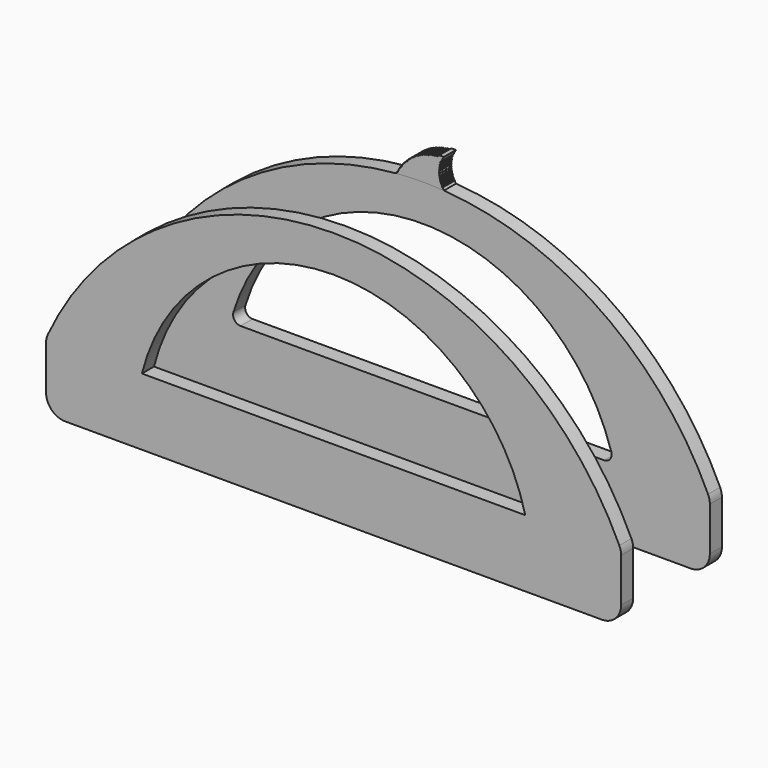
from build123d import *

# Parameters (mm, degrees)
F0_W     = 25.4
F0_H     = 17.78
F0_W_2   = 101.6
F1_DEPTH = 4
F2_R     = 5.08
F5_DEPTH = 4
F6_DEPTH = 4
F7_R     = 2


with BuildPart() as f1:
    # F0 (on Front) → F1 (new body)
    with BuildSketch(Plane.XZ):
        with BuildLine():
            Line((-96.1593091488, 0), (-70.7593091488, 0))
            ThreePointArc((-70.7593091488, 0), (-19.9593091488, 39.6002162648), (30.8406908512, 0))
            Line((30.8406908512, 0), (56.2406908512, 0))
            ThreePointArc((56.2406908512, 0), (-19.9593091488, 49.3151322007), (-96.1593091488, 0))
        make_face()
        with Locations((-83.4593091488, -8.89)):
            Rectangle(F0_W, F0_H)
        with Locations((-19.9593091488, -8.89)):
            Rectangle(F0_W_2, F0_H)
        with Locations((43.5406908512, -8.89)):
            Rectangle(F0_W, F0_H)
    extrude(amount=F1_DEPTH)

    # F2
    f2_edges = [f1.edges().sort_by_distance(p)[0] for p in [
        (-96.159309, -2, -17.78),
        (-96.159309, -2, 0),
        (56.240691, -2, 0),
        (56.240691, -2, -17.78),
    ]]
    fillet(f2_edges, radius=F2_R)


with BuildPart() as f5:
    # F4 (on offset) → F5 (new body)
    with BuildSketch(Plane(origin=(0, 25.4, 0), x_dir=(-1, 0, 0), z_dir=(0, 1, 0))):
        with BuildLine():
            ThreePointArc((14.2333489069, 49.1186406291), (-27.3325756719, 34.6377995621), (-55.7661369292, 1.0378972062))
            ThreePointArc((-55.7661369292, 1.0378972062), (-56.1206336975, -0.0081012275), (-56.2406908512, -1.1059932814))
            Line((-56.2406908512, -1.1059932814), (-56.2406908512, -12.7))
            ThreePointArc((-56.2406908512, -12.7), (-54.7527932996, -16.2921024484), (-51.1606908512, -17.78))
            Line((-51.1606908512, -17.78), (91.0793091488, -17.78))
            ThreePointArc((91.0793091488, -17.78), (94.6714115972, -16.2921024484), (96.1593091488, -12.7))
            Line((96.1593091488, -12.7), (96.1593091488, -1.1059932814))
            ThreePointArc((96.1593091488, -1.1059932814), (96.039251995, -0.0081012275), (95.6847552268, 1.0378972062))
            ThreePointArc((95.6847552268, 1.0378972062), (67.7588008858, 34.2863701139), (26.9164722002, 49.024893245))
            ThreePointArc((26.9164722002, 49.024893245), (20.5766925245, 49.3128505354), (14.2333489069, 49.1186406291))
        make_face()
        with BuildLine():
            Line((70.7593091488, 0), (-30.8406908512, 0))
            ThreePointArc((-30.8406908512, 0), (19.9593091488, 39.6002162648), (70.7593091488, 0))
        make_face(mode=Mode.SUBTRACT)
    extrude(amount=F5_DEPTH)

    # F7
    f7_edges = [f5.edges().sort_by_distance(p)[0] for p in [
        (30.840691, 27.4, 0),
        (-70.759309, 27.4, 0),
    ]]
    fillet(f7_edges, radius=F7_R)


with BuildPart() as f6:
    # F4 (on offset) → F6 (new body)
    with BuildSketch(Plane(origin=(0, 25.4, 0), x_dir=(-1, 0, 0), z_dir=(0, 1, 0))):
        with BuildLine():
            ThreePointArc((14.587919324, 49.7164839897), (14.4179129471, 49.4132453619), (14.2333489069, 49.1186406291))
            ThreePointArc((14.2333489069, 49.1186406291), (20.5766925245, 49.3128505354), (26.9164722002, 49.024893245))
            ThreePointArc((26.9164722002, 49.024893245), (26.8857831581, 49.08646559), (26.8547988816, 49.1478898978))
            Line((26.8547988816, 49.1478898978), (26.5911761671, 49.2095798254))
            Line((26.5911761671, 49.2095798254), (26.7208667986, 49.4053309815))
            Line((26.7208667986, 49.4053309815), (26.4132608323, 49.4949472972))
            Line((26.4132608323, 49.4949472972), (26.5055205673, 49.6949665248))
            Line((26.5055205673, 49.6949665248), (26.2731513655, 49.8021478255))
            Line((26.2731513655, 49.8021478255), (26.3379376774, 50.0790024769))
            Line((26.3379376774, 50.0790024769), (26.0950929247, 50.1358301871))
            Line((26.0950929247, 50.1358301871), (26.1518425157, 50.3783411094))
            Line((26.1518425157, 50.3783411094), (25.9053820797, 50.4591504757))
            Line((25.9053820797, 50.4591504757), (25.9053820797, 50.7511711684))
            Line((25.9053820797, 50.7511711684), (25.6734836565, 50.8145170583))
            Line((25.6734836565, 50.8145170583), (25.6734836565, 51.0803319296))
            Line((25.6734836565, 51.0803319296), (25.4115723416, 51.15599962))
            Line((25.4115723416, 51.15599962), (25.4115723416, 51.4298838594))
            Line((25.4115723416, 51.4298838594), (25.1922954826, 51.4965188726))
            Line((25.1922954826, 51.4965188726), (25.1922954826, 51.7063245174))
            Line((25.1922954826, 51.7063245174), (24.9980435381, 51.7674505416))
            Line((24.9980435381, 51.7674505416), (24.9980435381, 51.9400127204))
            Line((24.9980435381, 51.9400127204), (24.7877165675, 51.9400127204))
            Line((24.7877165675, 51.9400127204), (24.7877165675, 52.1821073611))
            Line((24.7877165675, 52.1821073611), (24.525700137, 52.2157475352))
            Line((24.525700137, 52.2157475352), (24.5238746665, 52.4709833554))
            Line((24.5238746665, 52.4709833554), (24.2354683578, 52.5100119412))
            Line((24.2354683578, 52.5100119412), (24.2354683578, 52.7694435698))
            Line((24.2354683578, 52.7694435698), (23.9391885698, 52.7694435698))
            Line((23.9391885698, 52.7694435698), (23.9218927202, 53.0751949188))
            Line((23.9218927202, 53.0751949188), (23.6284695566, 53.1915194753))
            Line((23.6284695566, 53.1915194753), (23.5636002435, 53.4027072483))
            Line((23.5636002435, 53.4027072483), (23.3228887181, 53.4366453867))
            Line((23.3228887181, 53.4366453867), (23.2888327005, 53.6393353656))
            Line((23.2888327005, 53.6393353656), (23.0650053006, 53.6393353656))
            Line((23.0650053006, 53.6393353656), (23.0043883839, 53.8719460216))
            Line((23.0043883839, 53.8719460216), (22.779410705, 53.848657757))
            Line((22.779410705, 53.848657757), (22.765069328, 54.0584802903))
            Line((22.765069328, 54.0584802903), (22.506762296, 54.0590807796))
            Line((22.506762296, 54.0590807796), (22.4784466394, 54.2714518254))
            Line((22.4784466394, 54.2714518254), (22.2824197263, 54.219558835))
            Line((22.2824197263, 54.219558835), (22.2260868329, 54.4323575793))
            Line((22.2260868329, 54.4323575793), (22.0073144883, 54.4176995754))
            Line((22.0073144883, 54.4176995754), (21.9442695379, 54.6199344099))
            Line((21.9442695379, 54.6199344099), (21.7523249884, 54.5943422397))
            Line((21.7523249884, 54.5943422397), (21.6658897698, 54.7918751836))
            Line((21.6658897698, 54.7918751836), (21.5037744492, 54.7329224646))
            Line((21.5037744492, 54.7329224646), (21.4721327832, 54.9371909063))
            Line((21.4721327832, 54.9371909063), (21.3080905378, 54.8467300832))
            Line((21.3080905378, 54.8467300832), (21.2191381366, 55.0500156185))
            Line((21.2191381366, 55.0500156185), (21.0135207493, 55.0226004344))
            Line((21.0135207493, 55.0226004344), (20.9822189555, 55.2088981982))
            Line((20.9822189555, 55.2088981982), (20.7728101002, 55.1809774937))
            Line((20.7728101002, 55.1809774937), (20.7028793185, 55.3407923631))
            Line((20.7028793185, 55.3407923631), (20.4985261605, 55.3064568978))
            Line((20.4985261605, 55.3064568978), (20.3615967184, 55.5033795536))
            Line((20.3615967184, 55.5033795536), (20.1945714653, 55.4427914321))
            Line((20.1945714653, 55.4427914321), (20.0995933264, 55.6278303266))
            Line((20.0995933264, 55.6278303266), (19.8850780725, 55.5688813329))
            Line((19.8850780725, 55.5688813329), (19.6910295635, 55.8005906641))
            Line((19.6910295635, 55.8005906641), (19.4658418426, 55.7020544428))
            Line((19.4658418426, 55.7020544428), (19.3872693926, 55.9373237193))
            Line((19.3872693926, 55.9373237193), (19.1870768637, 55.8497247362))
            Line((19.1870768637, 55.8497247362), (18.9639665186, 56.0625977814))
            Line((18.9639665186, 56.0625977814), (18.755344674, 55.9364333749))
            Line((18.755344674, 55.9364333749), (18.5060612857, 56.1999604106))
            Line((18.5060612857, 56.1999604106), (18.2371921837, 56.0165606439))
            Line((18.2371921837, 56.0165606439), (17.9991510693, 56.3655354645))
            Line((17.9991510693, 56.3655354645), (17.7067328214, 56.2351753163))
            Line((17.7067328214, 56.2351753163), (17.5552275032, 56.4777329564))
            Line((17.5552275032, 56.4777329564), (17.3433367163, 56.2978945673))
            Line((17.3433367163, 56.2978945673), (17.0317348093, 56.5418377519))
            Line((17.0317348093, 56.5418377519), (16.8055985123, 56.3584342599))
            Line((16.8055985123, 56.3584342599), (16.565402307, 56.6545959079))
            Line((16.565402307, 56.6545959079), (16.324840486, 56.4189776778))
            Line((16.324840486, 56.4189776778), (16.0862412304, 56.6931851208))
            Line((16.0862412304, 56.6931851208), (15.8974975348, 56.4617104828))
            Line((15.8974975348, 56.4617104828), (15.6760702867, 56.7347300278))
            Line((15.6760702867, 56.7347300278), (15.5257509735, 56.92007357))
            ThreePointArc((15.5257509735, 56.92007357), (14.8803713379, 56.9710291346), (14.2333489069, 56.9927849924))
            ThreePointArc((14.2333489069, 56.9927849924), (14.6015182552, 56.3691102132), (14.904617976, 55.7113492698))
            Line((14.904617976, 55.7113492698), (15.299375169, 55.4569363594))
            Line((15.299375169, 55.4569363594), (15.102394042, 55.1512926064))
            Line((15.102394042, 55.1512926064), (15.3938381916, 54.7919423014))
            Line((15.3938381916, 54.7919423014), (15.41741658, 54.7486878932))
            Line((15.41741658, 54.7486878932), (15.2720850005, 54.4861028494))
            ThreePointArc((15.2720850005, 54.4861028494), (15.2792961546, 54.4503699988), (15.2863247941, 54.4146008))
            Line((15.2863247941, 54.4146008), (15.4771834803, 54.179272257))
            Line((15.4771834803, 54.179272257), (15.3607955439, 53.9484339146))
            Line((15.3607955439, 53.9484339146), (15.5460399313, 53.7200277958))
            Line((15.5460399313, 53.7200277958), (15.4028055927, 53.5028686214))
            Line((15.4028055927, 53.5028686214), (15.5460399313, 53.2394908369))
            Line((15.5460399313, 53.2394908369), (15.4168100252, 53.0435639385))
            Line((15.4168100252, 53.0435639385), (15.6122156124, 52.9146778799))
            Line((15.6122156124, 52.9146778799), (15.4087463253, 52.7162426213))
            Line((15.4087463253, 52.7162426213), (15.5863766983, 52.5341060109))
            Line((15.5863766983, 52.5341060109), (15.4087463253, 52.3608703865))
            Line((15.4087463253, 52.3608703865), (15.5400016147, 52.2262853316))
            Line((15.5400016147, 52.2262853316), (15.4087463253, 52.0982774261))
            Line((15.4087463253, 52.0982774261), (15.4971601441, 51.8436096609))
            Line((15.4971601441, 51.8436096609), (15.3011284751, 51.7755527222))
            Line((15.3011284751, 51.7755527222), (15.3819940641, 51.5426269297))
            Line((15.3819940641, 51.5426269297), (15.2441149493, 51.4947589985))
            Line((15.2441149493, 51.4947589985), (15.3246454927, 51.2627982734))
            Line((15.3246454927, 51.2627982734), (15.1743145191, 51.2106073907))
            Line((15.1743145191, 51.2106073907), (15.2542428014, 50.9803814227))
            Line((15.2542428014, 50.9803814227), (15.0911179445, 50.9237488468))
            Line((15.0911179445, 50.9237488468), (15.1629368797, 50.7168810973))
            Line((15.1629368797, 50.7168810973), (15.0034722587, 50.6615192571))
            Line((15.0034722587, 50.6615192571), (15.0661312526, 50.4810358649))
            Line((15.0661312526, 50.4810358649), (14.9388080463, 50.4826270044))
            Line((14.9388080463, 50.4826270044), (14.9388080463, 50.2994172275))
            Line((14.9388080463, 50.2994172275), (14.8633962262, 50.2994172275))
            Line((14.8633962262, 50.2994172275), (14.8633962262, 50.1290969551))
            Line((14.8633962262, 50.1290969551), (14.7757533162, 50.098669687))
            Line((14.7757533162, 50.098669687), (14.7757533162, 49.9342381954))
            Line((14.7757533162, 49.9342381954), (14.6825777973, 49.9018901538))
            Line((14.6825777973, 49.9018901538), (14.7298402296, 49.7657551224))
            Line((14.7298402296, 49.7657551224), (14.587919324, 49.7164839897))
        make_face()
    extrude(amount=F6_DEPTH)


solid = Compound([f1.part, f5.part, f6.part])
